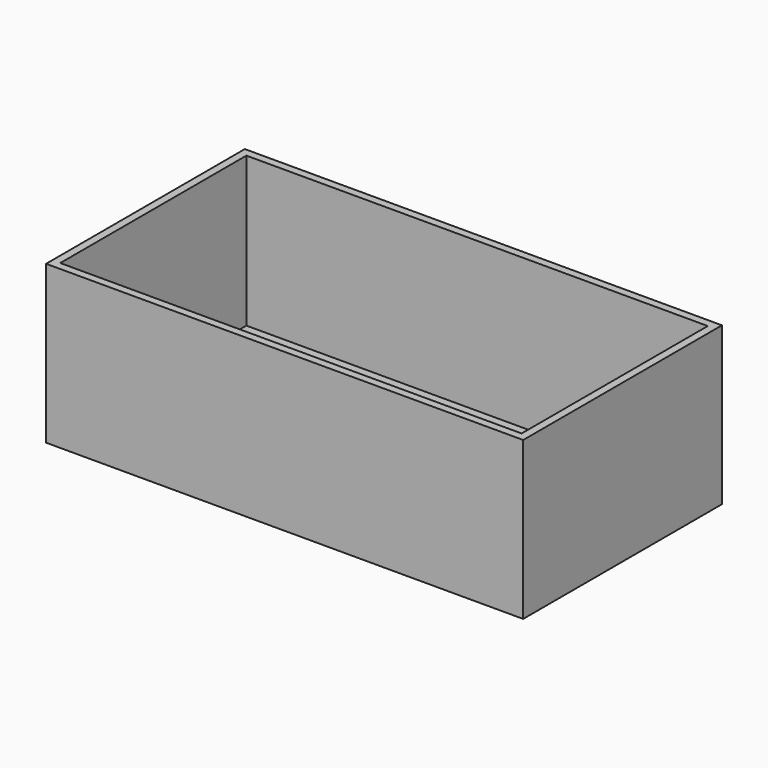
from build123d import *

# Parameters (mm, degrees)
F0_W     = 153.853889
F0_H     = 80.108998
F1_DEPTH = 50.8
F2_W     = 126.011554
F2_H     = 47.126646
F3_DEPTH = 25.4
F4_DEPTH = 25.4
F5_T     = -2.54


with BuildPart() as f1:
    # F0 (on Top) → F1 (new body)
    with BuildSketch(Plane.XY):
        with Locations((-25.98972, 15.661658)):
            Rectangle(F0_W, F0_H)
    extrude(amount=F1_DEPTH)

    # F2 (on face) → F3 (join)
    with BuildSketch(Plane.XY.offset(50.8)):
        with Locations((-26.755249, 16.175097)):
            Rectangle(F2_W, F2_H)
    extrude(amount=-F3_DEPTH)

    # F2 (on face) → F4 (join)
    with BuildSketch(Plane.XY.offset(50.8)):
        with Locations((-26.755249, 16.175097)):
            Rectangle(F2_W, F2_H)
    extrude(amount=-F4_DEPTH)

    # F5
    f5_openings = [f1.faces().sort_by_distance(p)[0] for p in [
        (-25.989721, 15.661658, 50.8),
    ]]
    offset(amount=F5_T, openings=f5_openings)


solid = f1.part
